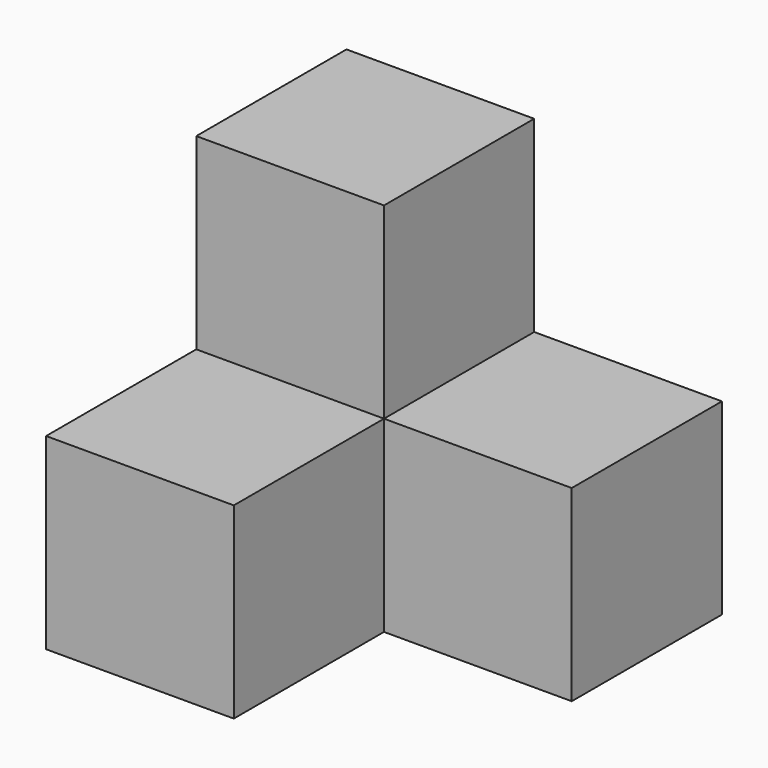
from build123d import *

# Parameters (mm, degrees)
BOX001_W     = 10
BOX001_H     = 10
BOX001_DEPTH = 10
BOX002_W     = 10
BOX002_H     = 10
BOX002_DEPTH = 10
BOX003_W     = 10
BOX003_H     = 10
BOX003_DEPTH = 10
BOX_W        = 10
BOX_H        = 10
BOX_DEPTH    = 10


with BuildPart() as cub2_nivell1:
    # Box001 → Box001 (new body)
    with BuildSketch(Plane(origin=(10, 0, 0), x_dir=(1, 0, 0), z_dir=(0, 0, 1))):
        with Locations((5, 5)):
            Rectangle(BOX001_W, BOX001_H)
    extrude(amount=BOX001_DEPTH)


with BuildPart() as cub3_nivell1:
    # Box002 → Box002 (new body)
    with BuildSketch(Plane(origin=(0, -10, 0), x_dir=(1, 0, 0), z_dir=(0, 0, 1))):
        with Locations((5, 5)):
            Rectangle(BOX002_W, BOX002_H)
    extrude(amount=BOX002_DEPTH)


with BuildPart() as cub1_nivell002:
    # Box003 → Box003 (new body)
    with BuildSketch(Plane.XY):
        with Locations((5, 5)):
            Rectangle(BOX003_W, BOX003_H)
    extrude(amount=BOX003_DEPTH)


with BuildPart() as obj1:
    # Box → Box (new body)
    with BuildSketch(Plane.XY.offset(10)):
        with Locations((5, 5)):
            Rectangle(BOX_W, BOX_H)
    extrude(amount=BOX_DEPTH)

    # Fusion: union Cub2_nivell1, Cub3_nivell1, Cub1_nivell002
    add(cub2_nivell1.part)
    add(cub3_nivell1.part)
    add(cub1_nivell002.part)


solid = obj1.part
